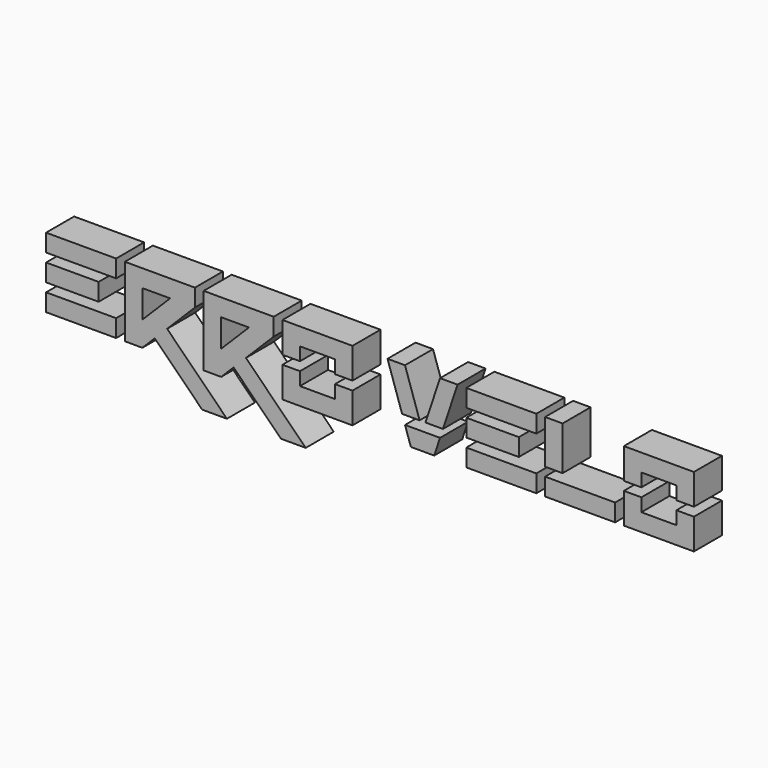
from build123d import *

# Parameters (mm, degrees)
F0_W     = 40
F0_H     = 10
F0_W_2   = 30
F0_W_3   = 10
F0_H_2   = 25
F1_DEPTH = 20


with BuildPart() as f1:
    # F0 (on Front) → F1 (new body)
    with BuildSketch(Plane.XZ):
        with Locations((-20, 35)):
            Rectangle(F0_W, F0_H)
        with Locations((-25, 20)):
            Rectangle(F0_W_2, F0_H)
        with Locations((-20, 5)):
            Rectangle(F0_W, F0_H)
        Polygon((5, 40), (5, 0), (15, 0), (22.071068, 7.071068), (49.142136, -20), (63.284271, -20), (29.142136, 14.142136), (45, 30), (45, 40), align=None)
        Polygon((15, 14.142136), (15, 30), (30.857864, 30), align=None, mode=Mode.SUBTRACT)
        Polygon((50, 40), (50, 0), (60, 0), (67.071068, 7.071068), (94.142136, -20), (108.284271, -20), (74.142136, 14.142136), (90, 30), (90, 40), align=None)
        Polygon((60, 14.142136), (60, 30), (75.857864, 30), align=None, mode=Mode.SUBTRACT)
        Polygon((135, 40), (95, 40), (95, 22.5), (105, 22.5), (105, 30), (125, 30), (125, 22.5), (135, 22.5), align=None)
        Polygon((95, 17.5), (95, 0), (135, 0), (135, 17.5), (125, 17.5), (125, 10), (105, 10), (105, 17.5), align=None)
        Polygon((165, 40), (155, 40), (163.333333, 15), (173.333333, 15), align=None)
        with Locations((220, 35)):
            Rectangle(F0_W, F0_H)
        with Locations((215, 20)):
            Rectangle(F0_W_2, F0_H)
        with Locations((220, 5)):
            Rectangle(F0_W, F0_H)
        with Locations((250, 27.5)):
            Rectangle(F0_W_3, F0_H_2)
        Polygon((330, 40), (290, 40), (290, 22.5), (300, 22.5), (300, 30), (320, 30), (320, 22.5), (330, 22.5), align=None)
        Polygon((290, 17.5), (290, 0), (330, 0), (330, 17.5), (320, 17.5), (320, 10), (300, 10), (300, 17.5), align=None)
        Polygon((186.666667, 15), (195, 40), (185, 40), (176.666667, 15), align=None)
        Polygon((165, 10), (168.333333, 0), (181.666667, 0), (185, 10), align=None)
        Polygon((245, 10), (245, 0), (285, 0), (285, 10), (255, 10), align=None)
    extrude(amount=F1_DEPTH)


solid = f1.part
